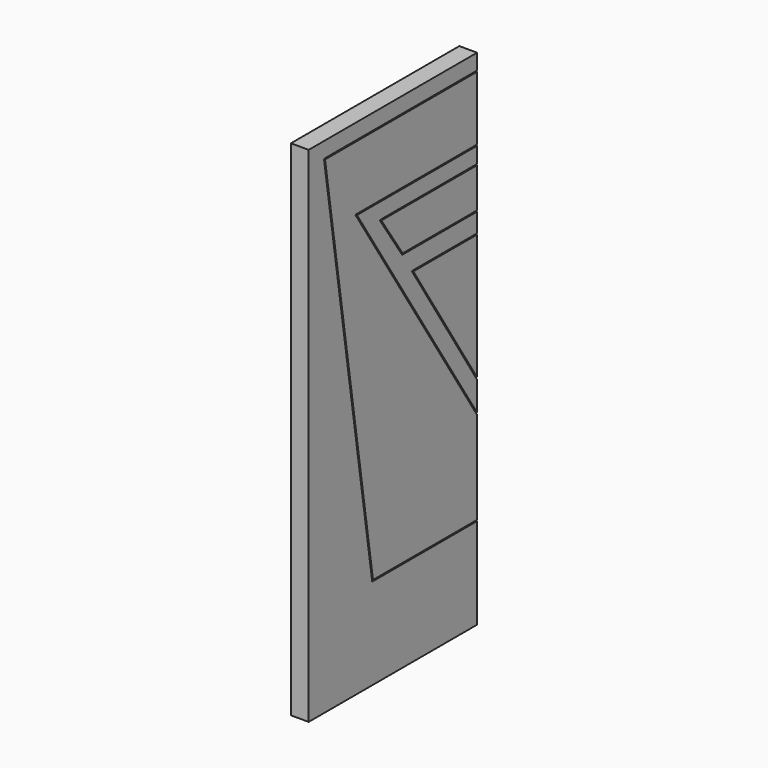
from build123d import *

# Parameters (mm, degrees)
SKETCH024_W     = 3.55
SKETCH024_H     = 8.9
PAD005_DEPTH    = 0.3
POCKET019_DEPTH = 0.15
SKETCH028_W     = 3.55
SKETCH028_H     = 0.203896
SKETCH028_H_2   = 0.201918
POCKET021_DEPTH = 5


with BuildPart() as part:
    # Sketch024 (on Face1 of Binder005) → Pad005 (new body)
    with BuildSketch(Plane.YZ.offset(-7.6)):
        with Locations((-1.775, -10.15)):
            Rectangle(SKETCH024_W, SKETCH024_H)
    extrude(amount=PAD005_DEPTH)

    # Sketch025 (on Face6 of Pad005) → Pocket019 (cut)
    with BuildSketch(Plane.YZ.offset(-7.3)):
        with BuildLine():
            ThreePointArc((0, -7.556224), (0.009539, -7.565763), (0, -7.575302))
            Line((-2.018681, -7.575302), (0, -7.575302))
            Line((-1.569349, -8.244981), (-2.018681, -7.575302))
            Line((0, -8.244981), (-1.569349, -8.244981))
            ThreePointArc((0, -8.244981), (0.009539, -8.25452), (0, -8.264059))
            Line((0, -8.264059), (-1.574436, -8.264059))
            ThreePointArc((-1.574436, -8.264059), (-1.578925, -8.262937), (-1.582357, -8.259835))
            Line((-1.582357, -8.259835), (-2.04449, -7.571078))
            ThreePointArc((-2.04449, -7.571078), (-2.044986, -7.561274), (-2.036569, -7.556224))
            Line((-2.036569, -7.556224), (0, -7.556224))
        make_face()
        with BuildLine():
            ThreePointArc((0, -12.840392), (0.009539, -12.849931), (0, -12.85947))
            Line((-2.202587, -12.85947), (0, -12.85947))
            ThreePointArc((-2.202587, -12.85947), (-2.208805, -12.857165), (-2.212018, -12.851364))
            Line((-3.226092, -6.178992), (-2.212018, -12.851364))
            ThreePointArc((-3.226092, -6.178992), (-3.223895, -6.171341), (-3.216661, -6.16802))
            Line((0, -6.16802), (-3.216661, -6.16802))
            ThreePointArc((0, -6.16802), (0.009539, -6.177559), (0, -6.187098))
            Line((0, -6.187098), (-3.205562, -6.187098))
            Line((-3.205562, -6.187098), (-2.194388, -12.840392))
            Line((-2.194388, -12.840392), (0, -12.840392))
        make_face()
        with BuildLine():
            Line((-0.680454, -8.605411), (-1.343559, -8.605411))
            Line((-1.343559, -8.605411), (0.008055, -10.736207))
            ThreePointArc((0.008055, -10.736207), (0.00511, -10.749372), (-0.008055, -10.746427))
            Line((-1.368962, -8.600982), (-0.008055, -10.746427))
            ThreePointArc((-1.368962, -8.600982), (-1.369266, -8.591276), (-1.360907, -8.586333))
            Line((-0.680454, -8.586333), (-1.360907, -8.586333))
            Line((0, -8.586333), (-0.680454, -8.586333))
            ThreePointArc((0, -8.586333), (0.009539, -8.595872), (0, -8.605411))
            Line((0, -8.605411), (-0.680454, -8.605411))
        make_face()
        with BuildLine():
            Line((-1.274751, -7.286347), (-2.532082, -7.286347))
            Line((-2.532082, -7.286347), (0.008037, -11.259983))
            ThreePointArc((0.008037, -11.259983), (0.005138, -11.273158), (-0.008037, -11.270259))
            Line((-2.557539, -7.281946), (-0.008037, -11.270259))
            ThreePointArc((-2.557539, -7.281946), (-2.557869, -7.272226), (-2.549502, -7.267269))
            Line((-1.274751, -7.267269), (-2.549502, -7.267269))
            Line((0, -7.267269), (-1.274751, -7.267269))
            ThreePointArc((0, -7.267269), (0.009539, -7.276808), (0, -7.286347))
            Line((0, -7.286347), (-1.274751, -7.286347))
        make_face()
    extrude(amount=-POCKET019_DEPTH, mode=Mode.SUBTRACT)

    # Sketch028 (on Face4 of Pocket019) → Pocket021 (cut)
    with BuildSketch(Plane.YZ.offset(-7.3)):
        with Locations((-1.775, -5.801948)):
            Rectangle(SKETCH028_W, SKETCH028_H)
        with Locations((-1.775, -14.499041)):
            Rectangle(SKETCH028_W, SKETCH028_H_2)
    extrude(amount=-POCKET021_DEPTH, mode=Mode.SUBTRACT)


solid = part.part
